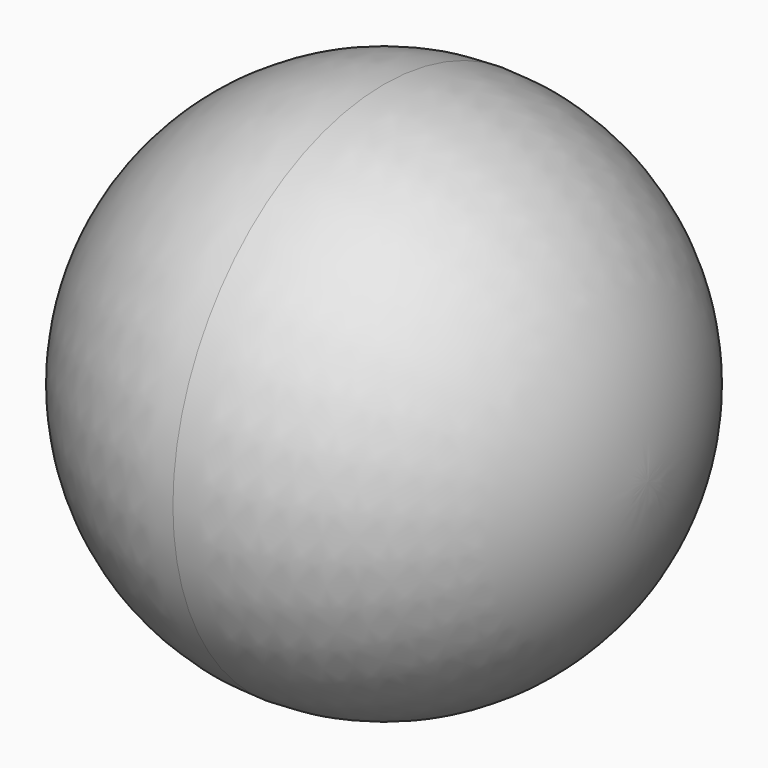
from build123d import *


with BuildPart() as f1:
    # F0 (on Front) → F1 (revolve)
    with BuildSketch(Plane.XZ):
        with BuildLine():
            Line((0, 0), (54.765467, 0))
            ThreePointArc((54.765467, 0), (38.725033, 38.725033), (0, 54.765467))
            ThreePointArc((0, 54.765467), (-38.725033, 38.725033), (-54.765467, 0))
            Line((-54.765467, 0), (0, 0))
        make_face()
    revolve(axis=Axis((-27.382733, 0, 0), (1, 0, 0)))


solid = f1.part
